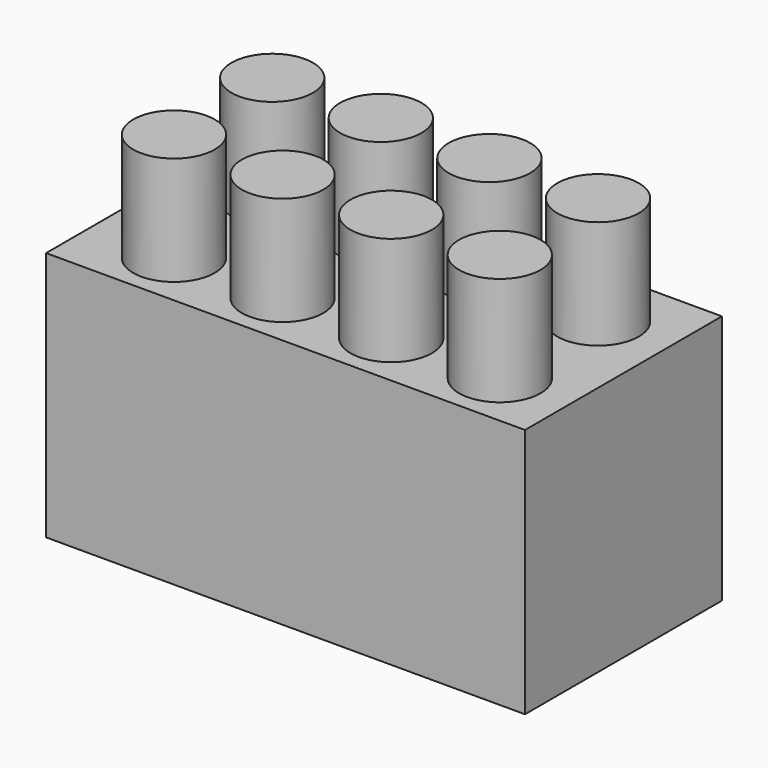
from build123d import *

# Parameters (mm, degrees)
F0_W     = 25.758613
F0_H     = 13.239064
F1_DEPTH = 13.462
F2_R     = 2.191863
F3_DEPTH = 5.842


with BuildPart() as f1:
    # F0 (on Top) → F1 (new body)
    with BuildSketch(Plane.XY):
        with Locations((-47.327315, 46.193648)):
            Rectangle(F0_W, F0_H)
    extrude(amount=F1_DEPTH)

    # F2 (on face) → F3 (join)
    with BuildSketch(Plane.XY.offset(13.462)):
        with Locations((-55.739351, 49.191888)):
            Circle(F2_R)
        with Locations((-55.739351, 42.587888)):
            Circle(F2_R)
        with Locations((-49.897351, 49.191888)):
            Circle(F2_R)
        with Locations((-49.897351, 42.587888)):
            Circle(F2_R)
        with Locations((-44.055351, 49.191888)):
            Circle(F2_R)
        with Locations((-44.055351, 42.587888)):
            Circle(F2_R)
        with Locations((-38.213351, 49.191888)):
            Circle(F2_R)
        with Locations((-38.213351, 42.587888)):
            Circle(F2_R)
    extrude(amount=F3_DEPTH)


solid = f1.part
